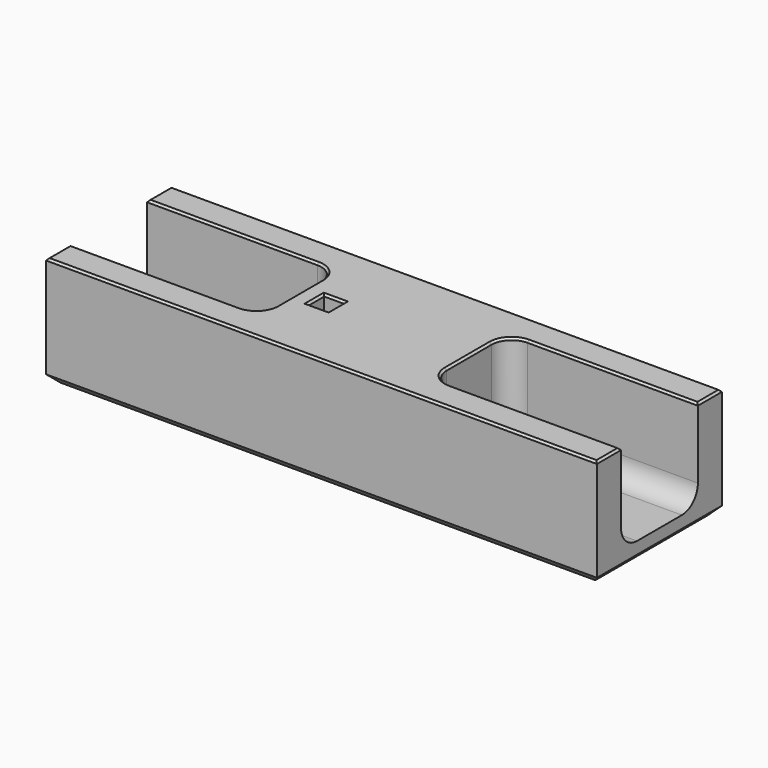
from build123d import *

# Parameters (mm, degrees)
F0_W     = 55
F0_H     = 15.6
F1_DEPTH = 11
F2_W     = 2
F2_H     = 2
F3_DEPTH = 5
F4_W     = 19
F4_H     = 9.6
F5_DEPTH = 9
F6_R     = 2
F7_SIZE  = 0.2
F8_SIZE  = 0.8


with BuildPart() as f1:
    # F0 (on Top) → F1 (new body)
    with BuildSketch(Plane.XY):
        Rectangle(F0_W, F0_H)
    extrude(amount=F1_DEPTH)

    # F2 (on face) → F3 (cut)
    with BuildSketch(Plane.XY.offset(11)):
        with Locations((-5.77, 0)):
            Rectangle(F2_W, F2_H)
    extrude(amount=-F3_DEPTH, mode=Mode.SUBTRACT)

    # F4 (on face) → F5 (cut)
    with BuildSketch(Plane.XY.offset(11)):
        with Locations((-18, 0)):
            Rectangle(F4_W, F4_H)
        with Locations((18, 0)):
            Rectangle(F4_W, F4_H)
    extrude(amount=-F5_DEPTH, mode=Mode.SUBTRACT)

    # F6
    f6_edges = [f1.edges().sort_by_distance(p)[0] for p in [
        (-8.5, 4.8, 6.5),
        (-18, 4.8, 2),
        (-8.5, 0, 2),
        (-18, -4.8, 2),
        (-8.5, -4.8, 6.5),
        (8.5, 0, 2),
        (8.5, 4.8, 6.5),
        (18, 4.8, 2),
        (18, -4.8, 2),
        (8.5, -4.8, 6.5),
    ]]
    fillet(f6_edges, radius=F6_R)

    # F7
    f7_edges = [f1.edges().sort_by_distance(p)[0] for p in [
        (-19, -4.8, 11),
        (-9.085786, -4.214214, 11),
        (-27.5, -6.3, 11),
        (-8.5, 0, 11),
        (0, -7.8, 11),
        (-9.085786, 4.214214, 11),
        (27.5, -6.3, 11),
        (-19, 4.8, 11),
        (19, -4.8, 11),
        (-27.5, 6.3, 11),
        (9.085786, -4.214214, 11),
        (0, 7.8, 11),
        (8.5, 0, 11),
        (27.5, 6.3, 11),
        (9.085786, 4.214214, 11),
        (19, 4.8, 11),
        (-6.77, 0, 11),
        (-5.77, 1, 11),
        (-5.77, -1, 11),
        (-4.77, 0, 11),
    ]]
    chamfer(f7_edges, length=F7_SIZE)

    # F8
    f8_edges = [f1.edges().sort_by_distance(p)[0] for p in [
        (27.5, 0, 0),
        (0, 7.8, 0),
        (-27.5, 0, 0),
        (0, -7.8, 0),
    ]]
    chamfer(f8_edges, length=F8_SIZE)


solid = f1.part
